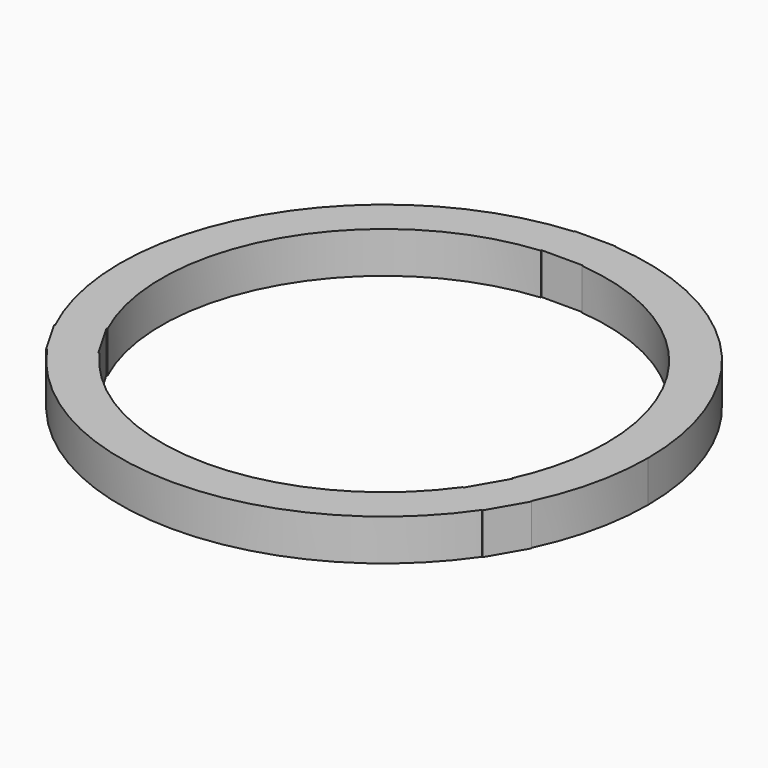
from build123d import *

# Parameters (mm, degrees)
F1_DEPTH = 5.96


with BuildPart() as f1:
    # F0 (on Top) → F1 (new body)
    with BuildSketch(Plane.XY):
        with BuildLine():
            ThreePointArc((34.3844858601, -16.4108845629), (37.1595136625, -8.4131173988), (38.1, 0))
            ThreePointArc((38.1, 0), (27.9745241246, 25.8657302236), (2.98, 37.9832805324))
            Line((2.98, 37.9832805324), (2.98, 32.14))
            Line((2.98, 32.14), (2.98, 32.0015499625))
            ThreePointArc((2.98, 32.0015499625), (23.7566495954, 21.6471984331), (32.14, 0))
            ThreePointArc((32.14, 0), (31.397461275, -6.8686989661), (29.204155228, -13.420019278))
            Line((29.204155228, -13.420019278), (29.3240564776, -13.4892442967))
            Line((29.3240564776, -13.4892442967), (34.3844858601, -16.4108845629))
        make_face()
        with BuildLine():
            Line((2.98, 32.14), (2.98, 37.9832805324))
            ThreePointArc((2.98, 37.9832805324), (1.4911424676, 38.0708089504), (0, 38.1))
            Line((0, 38.1), (0, 32.14))
            Line((0, 32.14), (2.98, 32.14))
        make_face()
        with BuildLine():
            ThreePointArc((0, 38.1), (1.4911424676, 38.0708089504), (2.98, 37.9832805324))
            Line((2.98, 37.9832805324), (2.98, 38.1))
            Line((2.98, 38.1), (0, 38.1))
        make_face()
        with BuildLine():
            Line((34.4855678842, -16.4692442967), (34.3844858601, -16.4108845629))
            ThreePointArc((34.3844858601, -16.4108845629), (33.7158589275, -17.7440372177), (32.9955678842, -19.05))
            Line((32.9955678842, -19.05), (34.4855678842, -16.4692442967))
        make_face()
        with BuildLine():
            ThreePointArc((32.9955678842, -19.05), (33.7158589275, -17.7440372177), (34.3844858601, -16.4108845629))
            Line((34.3844858601, -16.4108845629), (29.3240564776, -13.4892442967))
            Line((29.3240564776, -13.4892442967), (27.8340564776, -16.07))
            Line((27.8340564776, -16.07), (32.9955678842, -19.05))
        make_face()
        with BuildLine():
            Line((0, 32.14), (0, 38.1))
            ThreePointArc((0, 38.1), (-1.4911424676, 38.0708089504), (-2.98, 37.9832805324))
            Line((-2.98, 37.9832805324), (-2.98, 32.14))
            Line((-2.98, 32.14), (0, 32.14))
        make_face()
        with BuildLine():
            ThreePointArc((-2.98, 37.9832805324), (-1.4911424676, 38.0708089504), (0, 38.1))
            Line((0, 38.1), (-2.98, 38.1))
            Line((-2.98, 38.1), (-2.98, 37.9832805324))
        make_face()
        with BuildLine():
            Line((31.5055678842, -21.6307557033), (32.9955678842, -19.05))
            ThreePointArc((32.9955678842, -19.05), (32.2247164599, -20.3267717328), (31.4044858601, -21.5723959695))
            Line((31.4044858601, -21.5723959695), (31.5055678842, -21.6307557033))
        make_face()
        with BuildLine():
            ThreePointArc((31.4044858601, -21.5723959695), (32.2247164599, -20.3267717328), (32.9955678842, -19.05))
            Line((32.9955678842, -19.05), (27.8340564776, -16.07))
            Line((27.8340564776, -16.07), (26.3440564776, -18.6507557033))
            Line((26.3440564776, -18.6507557033), (31.4044858601, -21.5723959695))
        make_face()
        with BuildLine():
            Line((-2.98, 32.14), (-2.98, 37.9832805324))
            ThreePointArc((-2.98, 37.9832805324), (-32.9955678842, 19.05), (-34.3844858601, -16.4108845629))
            Line((-34.3844858601, -16.4108845629), (-29.3240564776, -13.4892442967))
            Line((-29.3240564776, -13.4892442967), (-29.204155228, -13.420019278))
            ThreePointArc((-29.204155228, -13.420019278), (-27.8340564776, 16.07), (-2.98, 32.0015499625))
            Line((-2.98, 32.0015499625), (-2.98, 32.14))
        make_face()
        with BuildLine():
            ThreePointArc((-31.4044858601, -21.5723959695), (0, -38.1), (31.4044858601, -21.5723959695))
            Line((31.4044858601, -21.5723959695), (26.3440564776, -18.6507557033))
            Line((26.3440564776, -18.6507557033), (26.224155228, -18.5815306845))
            ThreePointArc((26.224155228, -18.5815306845), (0, -32.14), (-26.224155228, -18.5815306845))
            Line((-26.224155228, -18.5815306845), (-26.3440564776, -18.6507557033))
            Line((-26.3440564776, -18.6507557033), (-31.4044858601, -21.5723959695))
        make_face()
        with BuildLine():
            Line((-29.3240564776, -13.4892442967), (-34.3844858601, -16.4108845629))
            ThreePointArc((-34.3844858601, -16.4108845629), (-33.7158589275, -17.7440372177), (-32.9955678842, -19.05))
            Line((-32.9955678842, -19.05), (-27.8340564776, -16.07))
            Line((-27.8340564776, -16.07), (-29.3240564776, -13.4892442967))
        make_face()
        with BuildLine():
            ThreePointArc((-32.9955678842, -19.05), (-33.7158589275, -17.7440372177), (-34.3844858601, -16.4108845629))
            Line((-34.3844858601, -16.4108845629), (-34.4855678842, -16.4692442967))
            Line((-34.4855678842, -16.4692442967), (-32.9955678842, -19.05))
        make_face()
        with BuildLine():
            Line((-31.5055678842, -21.6307557033), (-31.4044858601, -21.5723959695))
            ThreePointArc((-31.4044858601, -21.5723959695), (-32.2247164599, -20.3267717328), (-32.9955678842, -19.05))
            Line((-32.9955678842, -19.05), (-31.5055678842, -21.6307557033))
        make_face()
        with BuildLine():
            ThreePointArc((-32.9955678842, -19.05), (-32.2247164599, -20.3267717328), (-31.4044858601, -21.5723959695))
            Line((-31.4044858601, -21.5723959695), (-26.3440564776, -18.6507557033))
            Line((-26.3440564776, -18.6507557033), (-27.8340564776, -16.07))
            Line((-27.8340564776, -16.07), (-32.9955678842, -19.05))
        make_face()
    extrude(amount=F1_DEPTH)


solid = f1.part
